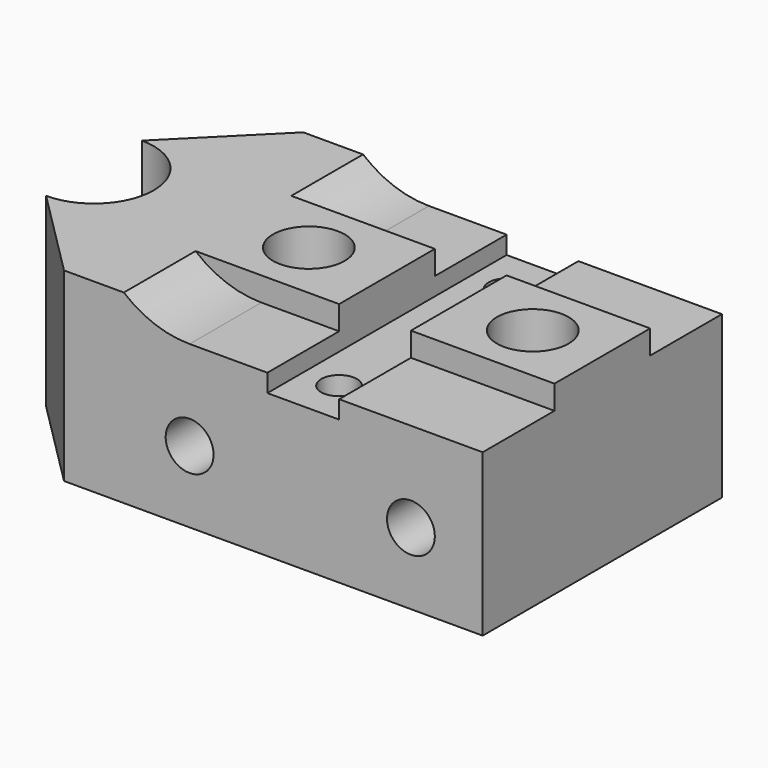
from build123d import *

# Parameters (mm, degrees)
F0_R      = 4
F1_DEPTH  = 25
F2_DEPTH  = 10
F3_SIZE   = 15
F4_R      = 10
F5_DEPTH  = 31
F6_W      = 20
F6_H      = 4
F7_DEPTH  = 24
F8_R      = 6
F9_DEPTH  = 31
F10_R     = 3
F11_DEPTH = 27


with BuildPart() as f1:
    # F0 (on Front) → F1 (new body, symmetric)
    with BuildSketch(Plane.XZ):
        with BuildLine():
            Line((-50, 0), (35, 0))
            Line((35, 0), (35, 27))
            Line((35, 27), (11, 27))
            Line((11, 27), (11, 24))
            Line((11, 24), (-1, 24))
            Line((-1, 24), (-1, 27))
            Line((-1, 27), (-14, 27))
            ThreePointArc((-14, 27), (-19.85235, 28.031038), (-25, 31))
            Line((-25, 31), (-50, 31))
            Line((-50, 31), (-50, 0))
        make_face()
        with Locations((-14, 12)):
            Circle(F0_R, mode=Mode.SUBTRACT)
        with Locations((23, 12)):
            Circle(F0_R, mode=Mode.SUBTRACT)
    extrude(amount=F1_DEPTH, both=True)

    # F0 (on Front) → F2 (join, symmetric)
    with BuildSketch(Plane.XZ):
        with BuildLine():
            Line((-1, 31), (-25, 31))
            ThreePointArc((-25, 31), (-19.85235, 28.031038), (-14, 27))
            Line((-14, 27), (-1, 27))
            Line((-1, 27), (-1, 31))
        make_face()
    extrude(amount=F2_DEPTH, both=True)

    # F3
    f3_edges = [f1.edges().sort_by_distance(p)[0] for p in [
        (-50, -25, 15.5),
        (-50, 25, 15.5),
    ]]
    chamfer(f3_edges, length=F3_SIZE)

    # F4 (on face) → F5 (cut)
    with BuildSketch(Plane.XY.offset(31)):
        with Locations((-50, 0)):
            Circle(F4_R)
    extrude(amount=-F5_DEPTH, mode=Mode.SUBTRACT)

    # F6 (on face) → F7 (join)
    with BuildSketch(Plane.YZ.offset(35)):
        with Locations((0, 29)):
            Rectangle(F6_W, F6_H)
    extrude(amount=-F7_DEPTH)

    # F8 (on face) → F9 (cut)
    with BuildSketch(Plane.XY.offset(31)):
        with Locations((-14.062501, 0)):
            Circle(F8_R)
        with Locations((23.372846, 0)):
            Circle(F8_R)
    extrude(amount=-F9_DEPTH, mode=Mode.SUBTRACT)

    # F10 (on face) → F11 (cut)
    with BuildSketch(Plane.XY.offset(24)):
        with Locations((5, 17.5)):
            Circle(F10_R)
        with Locations((5, -17.5)):
            Circle(F10_R)
    extrude(amount=-F11_DEPTH, mode=Mode.SUBTRACT)


solid = f1.part
